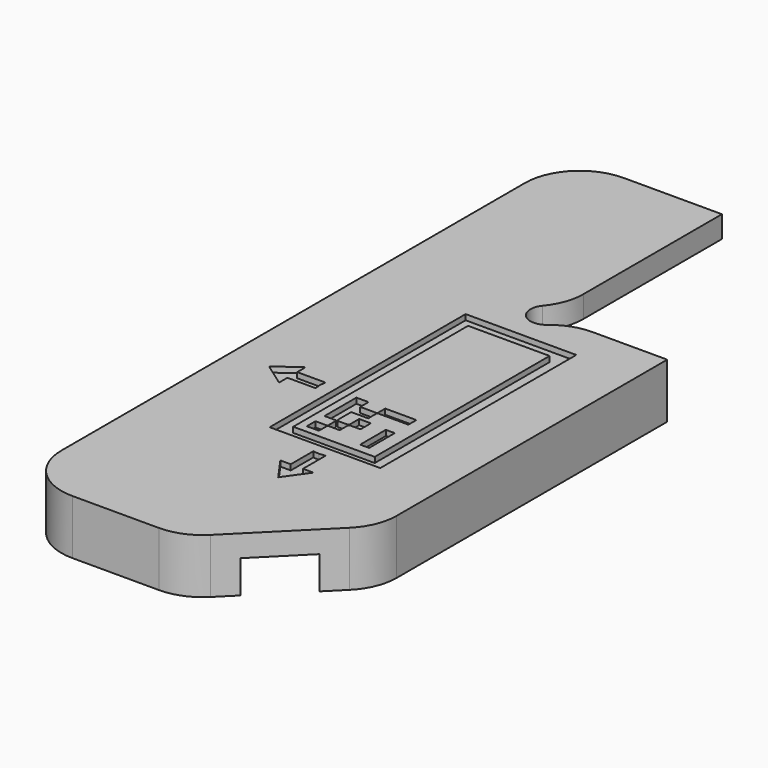
from build123d import *

# Parameters (mm, degrees)
F1_DEPTH = 2
F3_DEPTH = 3
F4_R     = 5
F5_R     = 5
F6_W     = 10.114867
F6_H     = 22.403944
F6_W_2   = 7.454773
F6_H_2   = 19.985135
F6_W_3   = 0.818297
F6_H_3   = 2.934326
F7_DEPTH = 0.5


with BuildPart() as f1:
    # F0 (on Top) → F1 (new body)
    with BuildSketch(Plane.XY):
        with BuildLine():
            Line((0, 63), (0, 0))
            Line((0, 0), (15, 0))
            Line((15, 0), (25, 10))
            Line((25, 10), (25, 43))
            Line((25, 43), (15.5, 43))
            ThreePointArc((15.5, 43), (12.93934, 41.93934), (14, 44.5))
            Line((14, 44.5), (14, 63))
            Line((14, 63), (0, 63))
        make_face()
    extrude(amount=F1_DEPTH)

    # F2 (on face) → F3 (join)
    with BuildSketch(Plane(origin=(0, 0, 0), x_dir=(1, 0, 0), z_dir=(0, 0, -1))):
        Polygon((15, 0), (0, 0), (0, -3), (18, -3), align=None)
        Polygon((25, -43), (25, -10), (22, -7), (22, -43), align=None)
    extrude(amount=F3_DEPTH)

    # F4
    f4_edges = [f1.edges().sort_by_distance(p)[0] for p in [
        (14, 44.5, 1),
        (15.5, 43, 1),
    ]]
    fillet(f4_edges, radius=F4_R)

    # F5
    f5_edges = [f1.edges().sort_by_distance(p)[0] for p in [
        (0, 63, 1),
        (0, 0, -0.5),
        (15, 0, -0.5),
        (25, 10, -0.5),
    ]]
    fillet(f5_edges, radius=F5_R)

    # F6 (on face) → F7 (cut)
    with BuildSketch(Plane.XY.offset(2)):
        with Locations((14.416239, 28.307009)):
            Rectangle(F6_W, F6_H)
        with Locations((14.355088, 28.207892)):
            Rectangle(F6_W_2, F6_H_2, mode=Mode.SUBTRACT)
        Polygon((5.570976, 25.942754), (3.440016, 24.428651), (5.570976, 22.914547), (5.570976, 23.867872), (8.150558, 23.867872), (8.09448, 24.428651), (8.150558, 24.98943), (5.570976, 24.98943), align=None)
        Polygon((13.157818, 13.575147), (14.671921, 11.444188), (16.186024, 13.575147), (15.2327, 13.575147), (15.2327, 16.15473), (14.671921, 16.098652), (14.111142, 16.15473), (14.111142, 13.575147), align=None)
        with BuildLine():
            Line((11.334654, 19.87192), (11.334654, 18.880593))
            Line((11.334654, 18.880593), (12.444939, 18.880593))
            Line((12.444939, 18.880593), (12.444939, 19.760527))
            ThreePointArc((12.444939, 19.760527), (12.477566, 19.839294), (12.556333, 19.87192))
            Line((12.556333, 19.87192), (13.555225, 19.87192))
            Line((13.555225, 19.87192), (13.555225, 20.791506))
            ThreePointArc((13.555225, 20.791506), (13.587851, 20.870274), (13.666619, 20.9029))
            Line((13.666619, 20.9029), (14.625858, 20.9029))
            Line((14.625858, 20.9029), (14.625858, 22.092491))
            Line((14.625858, 22.092491), (13.555225, 22.092491))
            Line((13.555225, 22.092491), (13.555225, 21.014294))
            ThreePointArc((13.555225, 21.014294), (13.522599, 20.935526), (13.443831, 20.9029))
            Line((13.443831, 20.9029), (12.556333, 20.9029))
            ThreePointArc((12.556333, 20.9029), (12.477566, 20.935526), (12.444939, 21.014294))
            Line((12.444939, 21.014294), (12.444939, 22.568326))
            Line((12.444939, 22.568326), (14, 22.568326))
            Line((14, 22.568326), (14, 23.487912))
            ThreePointArc((14, 23.487912), (14.032626, 23.56668), (14.111394, 23.599306))
            Line((14.111394, 23.599306), (16.848227, 23.599306))
            Line((16.848227, 23.599306), (16.848227, 24.515837))
            Line((16.848227, 24.515837), (14, 24.515837))
            Line((14, 24.515837), (14, 23.7107))
            ThreePointArc((14, 23.7107), (13.967374, 23.631933), (13.888606, 23.599306))
            Line((13.888606, 23.599306), (12.444939, 23.599306))
            Line((12.444939, 23.599306), (12.444939, 24.55098))
            Line((12.444939, 24.55098), (11.334654, 24.55098))
            Line((11.334654, 24.55098), (11.334654, 22.050673))
            Line((11.334654, 22.050673), (11.334654, 20.9029))
            Line((11.334654, 20.9029), (12.333546, 20.9029))
            ThreePointArc((12.333546, 20.9029), (12.412313, 20.870274), (12.444939, 20.791506))
            Line((12.444939, 20.791506), (12.444939, 19.983314))
            ThreePointArc((12.444939, 19.983314), (12.412313, 19.904547), (12.333546, 19.87192))
            Line((12.333546, 19.87192), (11.334654, 19.87192))
        make_face()
        with Locations((16.497659, 20.506369)):
            Rectangle(F6_W_3, F6_H_3)
    extrude(amount=-F7_DEPTH, mode=Mode.SUBTRACT)


solid = f1.part
